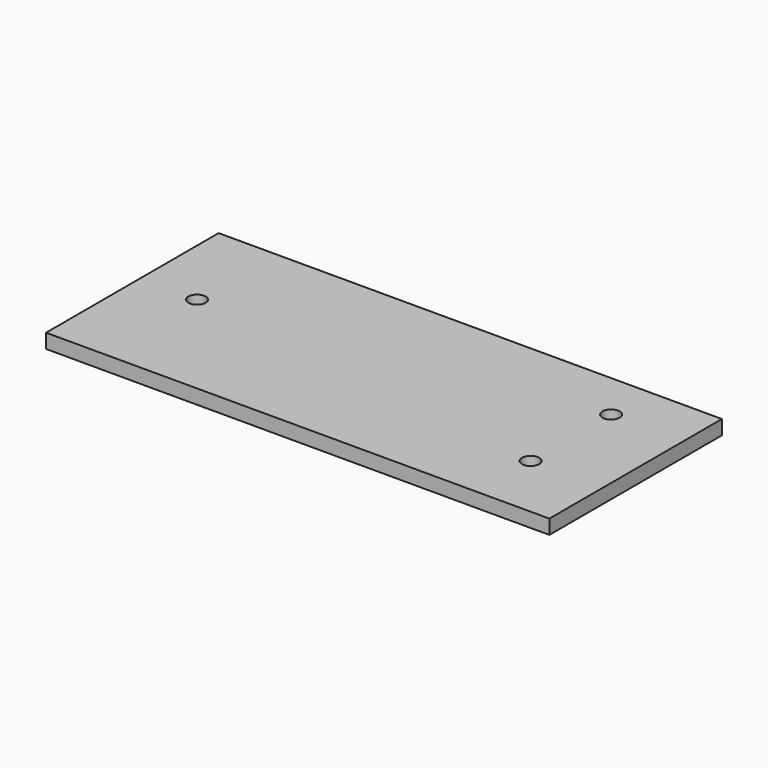
from build123d import *

# Parameters (mm, degrees)
F0_W     = 175
F0_H     = 75
F1_DEPTH = 5
F2_R     = 3
F3_DEPTH = 5.001


with BuildPart() as f1:
    # F0 (on Top) → F1 (new body)
    with BuildSketch(Plane.XY):
        with Locations((4.504636, -3.275954)):
            Rectangle(F0_W, F0_H)
    extrude(amount=F1_DEPTH)

    # F2 (on face) → F3 (cut, through all)
    with BuildSketch(Plane.XY.offset(5)):
        with Locations((-63.131546, 0)):
            Circle(F2_R)
        with Locations((-63.131546, 0)):
            Circle(F2_R)
        with Locations((66.868454, 17.5)):
            Circle(F2_R)
        with Locations((66.868454, -17.5)):
            Circle(F2_R)
    extrude(amount=-F3_DEPTH, mode=Mode.SUBTRACT)


solid = f1.part
